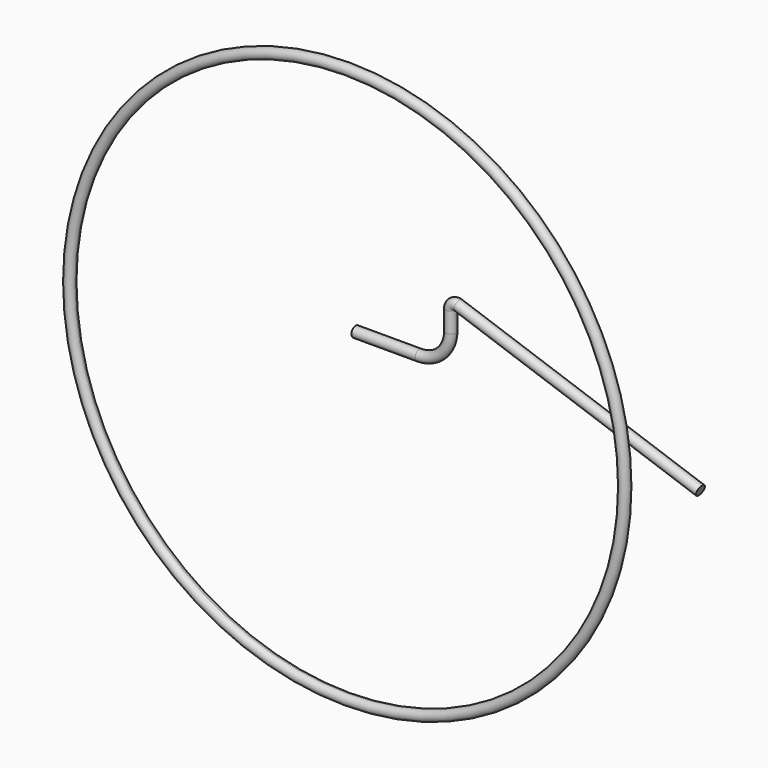
from build123d import *

# Parameters (mm, degrees)
F5_R = 0.5


with BuildPart() as f2:
    # F2: sweep along a path in F0
    with BuildLine(Plane.XZ) as f2_path:
        CenterArc((0, 0), 26.5, 0, 360)
    # F1 (on Right) → F2 (sweep)
    with BuildSketch(Plane.YZ):
        with BuildLine():
            ThreePointArc((0, 26), (0.3535533906, 26.1464466094), (0.5, 26.5))
            ThreePointArc((0.5, 26.5), (-0.3535533906, 26.8535533906), (0, 26))
        make_face()
    sweep(path=f2_path.line)


with BuildPart() as f8:
    # F8: sweep along a path in F7
    with BuildLine(Plane.XZ.offset(-1)) as f8_path:
        Line((0, 4), (6.0857334435, 4))
        ThreePointArc((6.0857334435, 4), (8.2070537871, 4.8786796564), (9.0857334435, 7))
        Line((9.0857334435, 7), (9.0857334435, 8.9261529736))
        ThreePointArc((9.0857334435, 8.9261529736), (9.3059748396, 9.3527424009), (9.7812969775, 9.4202233411))
        Line((9.7812969775, 9.4202233411), (32.9255722463, 1.3485861709))
    # F5 (on Right) → F8 (sweep)
    with BuildSketch(Plane.YZ):
        with Locations((1, 4)):
            Circle(F5_R)
    sweep(path=f8_path.line)


solid = Compound([f2.part, f8.part])
